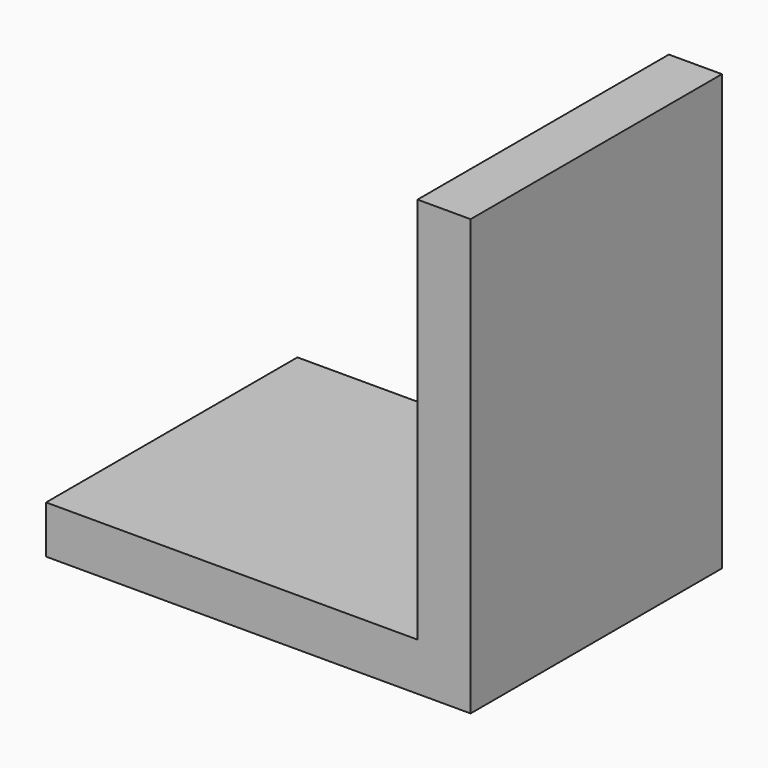
from build123d import *

# Parameters (mm, degrees)
F0_W     = 40
F0_H     = 29.6
F1_DEPTH = 41
F2_W     = 35
F2_H     = 36.5
F3_DEPTH = 29.601


with BuildPart() as f1:
    # F0 (on Top) → F1 (new body)
    with BuildSketch(Plane.XY):
        Rectangle(F0_W, F0_H)
    extrude(amount=F1_DEPTH)

    # F2 (on face) → F3 (cut, through all)
    with BuildSketch(Plane.XZ.offset(14.8)):
        with Locations((-2.5, 22.75)):
            Rectangle(F2_W, F2_H)
    extrude(amount=-F3_DEPTH, mode=Mode.SUBTRACT)


solid = f1.part
